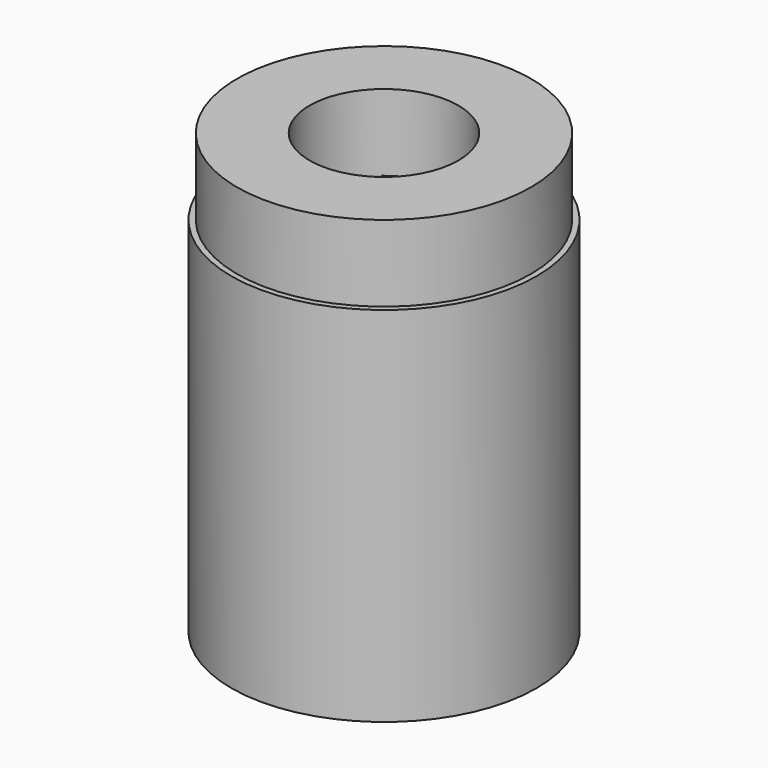
from build123d import *

# Parameters (mm, degrees)
SKETCH268_R     = 4
PAD107_DEPTH    = 9.5
SKETCH269_R     = 3.85
SKETCH269_R_2   = 1.95
PAD108_DEPTH    = 2
SKETCH270_R     = 1.5
POCKET131_DEPTH = 4.001


with BuildPart() as part:
    # Sketch268 → Pad107 (new body)
    with BuildSketch(Plane.XY):
        Circle(SKETCH268_R)
        with BuildLine():
            Line((-1.245994, 1.5), (1.245994, 1.5))
            ThreePointArc((-1.245994, 1.5), (0, -1.95), (1.245994, 1.5))
        make_face(mode=Mode.SUBTRACT)
    extrude(amount=PAD107_DEPTH)

    # Sketch269 (on Face5 of Pad107) → Pad108 (join)
    with BuildSketch(Plane.XY.offset(9.5)):
        Circle(SKETCH269_R)
        Circle(SKETCH269_R_2, mode=Mode.SUBTRACT)
    extrude(amount=PAD108_DEPTH)

    # Sketch270 → Pocket131 (cut, through all)
    with BuildSketch(Plane.XZ):
        with Locations((0, 2.5)):
            Circle(SKETCH270_R)
    extrude(amount=-POCKET131_DEPTH, mode=Mode.SUBTRACT)


solid = part.part
